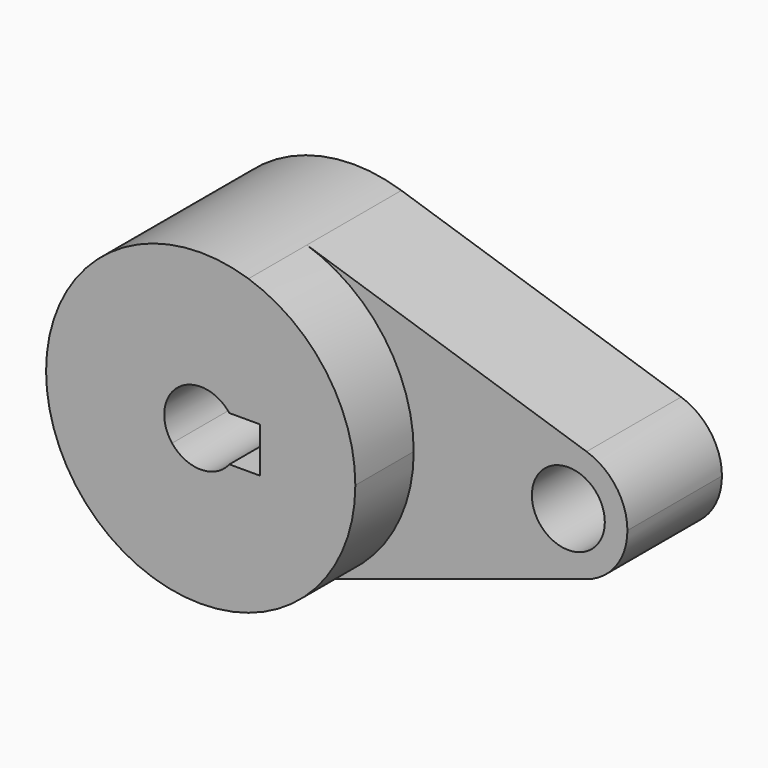
from build123d import *

# Parameters (mm, degrees)
F0_R     = 10.5
F1_DEPTH = 34
F2_DEPTH = 55


with BuildPart() as f1:
    # F0 (on Front) → F1 (new body)
    with BuildSketch(Plane.XZ):
        with BuildLine():
            ThreePointArc((106, 0), (102.753141, 9.992553), (94.252809, 16.168117))
            ThreePointArc((94.252809, 16.168117), (72, 0), (94.252809, -16.168117))
            ThreePointArc((94.252809, -16.168117), (102.753141, -9.992553), (106, 0))
        make_face()
        with Locations((89, 0)):
            Circle(F0_R, mode=Mode.SUBTRACT)
        with BuildLine():
            ThreePointArc((13.75, 42.322423), (36.000868, 26.156978), (44.5, 0))
            ThreePointArc((44.5, 0), (36.000868, -26.156978), (13.75, -42.322423))
            Line((13.75, -42.322423), (94.252809, -16.168117))
            ThreePointArc((94.252809, -16.168117), (72, 0), (94.252809, 16.168117))
            Line((94.252809, 16.168117), (13.75, 42.322423))
        make_face()
        with BuildLine():
            ThreePointArc((13.75, -42.322423), (36.000868, -26.156978), (44.5, 0))
            ThreePointArc((44.5, 0), (36.000868, 26.156978), (13.75, 42.322423))
            ThreePointArc((13.75, 42.322423), (-44.5, 0), (13.75, -42.322423))
        make_face()
        with BuildLine():
            ThreePointArc((-8.246211, 6.5), (0, 10.5), (8.246211, 6.5))
            Line((8.246211, 6.5), (17, 6.5))
            Line((17, 6.5), (17, -6.5))
            Line((17, -6.5), (8.246211, -6.5))
            ThreePointArc((8.246211, -6.5), (0, -10.5), (-8.246211, -6.5))
            Line((-8.246211, -6.5), (-17, -6.5))
            Line((-17, -6.5), (-17, 6.5))
            Line((-17, 6.5), (-8.246211, 6.5))
        make_face(mode=Mode.SUBTRACT)
        with BuildLine():
            ThreePointArc((-8.246211, -6.5), (-10.5, 0), (-8.246211, 6.5))
            Line((-8.246211, 6.5), (-17, 6.5))
            Line((-17, 6.5), (-17, -6.5))
            Line((-17, -6.5), (-8.246211, -6.5))
        make_face()
    extrude(amount=F1_DEPTH)

    # F0 (on Front) → F2 (join)
    with BuildSketch(Plane.XZ):
        with BuildLine():
            ThreePointArc((13.75, -42.322423), (36.000868, -26.156978), (44.5, 0))
            ThreePointArc((44.5, 0), (36.000868, 26.156978), (13.75, 42.322423))
            ThreePointArc((13.75, 42.322423), (-44.5, 0), (13.75, -42.322423))
        make_face()
        with BuildLine():
            ThreePointArc((-8.246211, 6.5), (0, 10.5), (8.246211, 6.5))
            Line((8.246211, 6.5), (17, 6.5))
            Line((17, 6.5), (17, -6.5))
            Line((17, -6.5), (8.246211, -6.5))
            ThreePointArc((8.246211, -6.5), (0, -10.5), (-8.246211, -6.5))
            Line((-8.246211, -6.5), (-17, -6.5))
            Line((-17, -6.5), (-17, 6.5))
            Line((-17, 6.5), (-8.246211, 6.5))
        make_face(mode=Mode.SUBTRACT)
        with BuildLine():
            ThreePointArc((-8.246211, -6.5), (-10.5, 0), (-8.246211, 6.5))
            Line((-8.246211, 6.5), (-17, 6.5))
            Line((-17, 6.5), (-17, -6.5))
            Line((-17, -6.5), (-8.246211, -6.5))
        make_face()
    extrude(amount=F2_DEPTH)


solid = f1.part
